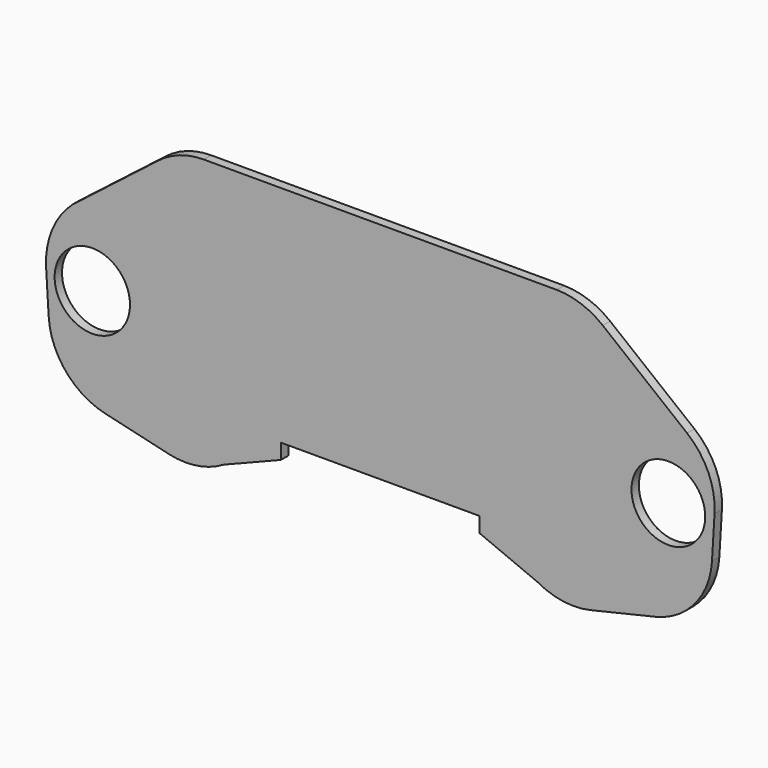
from build123d import *

# Parameters (mm, degrees)
F0_R     = 40.887341
F0_R_2   = 40
F1_DEPTH = 10


with BuildPart() as f1:
    # F0 (on Front) → F1 (new body)
    with BuildSketch(Plane.XZ):
        with BuildLine():
            Line((107.775715, -69.71058), (107.775715, -86.218551))
            Line((107.775715, -86.218551), (170.504385, -112.312941))
            ThreePointArc((170.504385, -112.312941), (198.504273, -121.810814), (228.041668, -120.48958))
            Line((228.041668, -120.48958), (298.28643, -104.000199))
            ThreePointArc((298.28643, -104.000199), (341.186322, -77.660114), (359.85893, -30.910413))
            Line((359.85893, -30.910413), (362.640608, 15.450881))
            ThreePointArc((362.640608, 15.450881), (355.915123, 52.674286), (332.839788, 82.646656))
            Line((332.839788, 82.646656), (241.426235, 155.719047))
            ThreePointArc((241.426235, 155.719047), (217.882867, 168.792389), (191.372618, 173.526222))
            Line((191.372618, 173.526222), (-191.468281, 173.48477))
            ThreePointArc((-191.468281, 173.48477), (-217.996083, 168.958329), (-241.521898, 155.891234))
            Line((-241.521898, 155.891234), (-334.096237, 84.039545))
            ThreePointArc((-334.096237, 84.039545), (-356.082266, 52.955461), (-362.640633, 15.450881))
            Line((-362.640633, 15.450881), (-359.858955, -30.910413))
            ThreePointArc((-359.858955, -30.910413), (-341.186347, -77.660114), (-298.286455, -104.000199))
            Line((-298.286455, -104.000199), (-229.283242, -120.198136))
            ThreePointArc((-229.283242, -120.198136), (-198.75578, -121.372346), (-170.014157, -111.017456))
            Line((-170.014157, -111.017456), (-107.77574, -86.218551))
            Line((-107.77574, -86.218551), (-107.77574, -69.71058))
            Line((-107.77574, -69.71058), (107.775715, -69.71058))
        make_face()
        with Locations((-312.481592, 8.64963)):
            Circle(F0_R, mode=Mode.SUBTRACT)
        with Locations((312.518408, 9.171763)):
            Circle(F0_R_2, mode=Mode.SUBTRACT)
    extrude(amount=F1_DEPTH)


solid = f1.part
